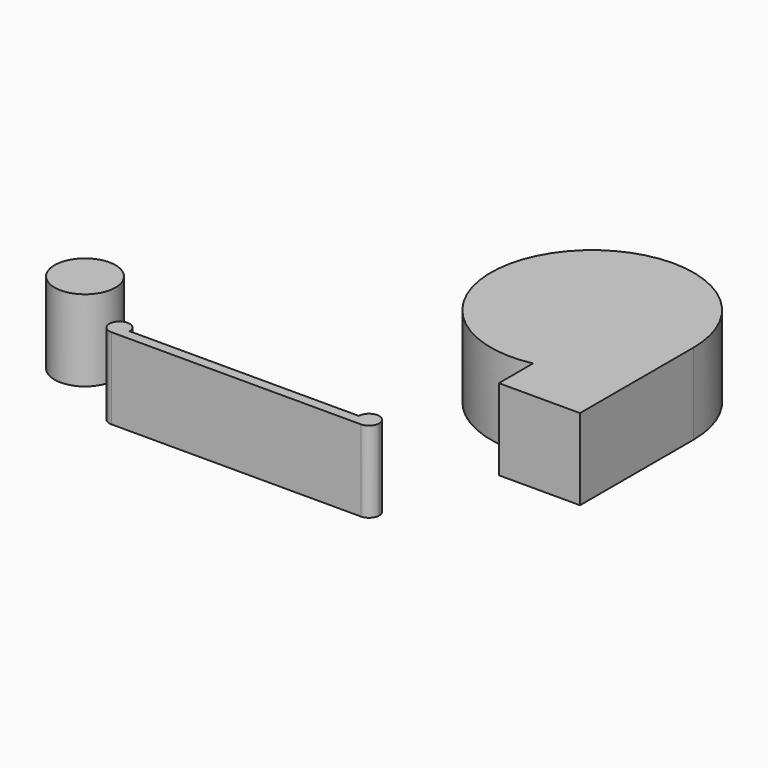
from build123d import *

# Parameters (mm, degrees)
F1_DEPTH = 25.4


with BuildPart() as f1:
    # F0 (on Top) → F1 (new body)
    with BuildSketch(Plane.XY):
        with BuildLine():
            ThreePointArc((9.525, 25.4), (-6.7351920908, 32.1351920908), (0, 15.875))
            ThreePointArc((0, 15.875), (6.7351920908, 18.6648079092), (9.525, 25.4))
        make_face()
    extrude(amount=F1_DEPTH)


with BuildPart() as f1b:
    # F0 (on Top) → F1, piece 2 (new body)
    with BuildSketch(Plane.XY):
        with BuildLine():
            Line((23.4790491443, 6.35), (101.6, 6.35))
            ThreePointArc((101.6, 6.35), (99.3549359697, 7.2799359697), (98.425, 9.525))
            Line((98.425, 9.525), (26.6540491479, 9.525))
            ThreePointArc((26.6540491479, 9.525), (25.7241131769, 7.2799359685), (23.4790491443, 6.35))
        make_face()
        with BuildLine():
            ThreePointArc((98.425, 9.525), (99.3549359697, 7.2799359697), (101.6, 6.35))
            Line((101.6, 6.35), (101.6, 9.525))
            Line((101.6, 9.525), (98.425, 9.525))
        make_face()
        with BuildLine():
            Line((101.6, 9.525), (101.6, 6.35))
            ThreePointArc((101.6, 6.35), (103.8450640303, 7.2799359697), (104.775, 9.525))
            ThreePointArc((104.775, 9.525), (101.6, 12.7), (98.425, 9.525))
            Line((98.425, 9.525), (101.6, 9.525))
        make_face()
        with BuildLine():
            ThreePointArc((20.3040491479, 9.525), (21.2339851164, 7.279935971), (23.4790491443, 6.35))
            ThreePointArc((23.4790491443, 6.35), (25.7241131769, 7.2799359685), (26.6540491479, 9.525))
            Line((26.6540491479, 9.525), (21.6534588964, 9.525))
            Line((21.6534588964, 9.525), (20.3040491479, 9.525))
        make_face()
        with BuildLine():
            ThreePointArc((20.3882761834, 10.2514623059), (20.3251761985, 9.8906643527), (20.3040491479, 9.525))
            Line((20.3040491479, 9.525), (21.6534588964, 9.525))
            Line((21.6534588964, 9.525), (21.6534588964, 12.1226614933))
            Line((21.6534588964, 12.1226614933), (21.0208675399, 11.1870618996))
            Line((21.0208675399, 11.1870618996), (20.3882761834, 10.2514623059))
        make_face()
        with BuildLine():
            Line((21.6534588964, 9.525), (26.6540491479, 9.525))
            ThreePointArc((26.6540491479, 9.525), (26.2965723553, 10.9886215275), (25.3046393994, 12.1226614933))
            Line((25.3046393994, 12.1226614933), (21.6534588964, 12.1226614933))
            Line((21.6534588964, 12.1226614933), (21.6534588964, 9.525))
        make_face()
        with BuildLine():
            ThreePointArc((20.848839381, 11.3033761082), (20.5706060051, 10.7984141058), (20.3882761834, 10.2514623059))
            Line((20.3882761834, 10.2514623059), (21.0208675399, 11.1870618996))
            Line((21.0208675399, 11.1870618996), (20.848839381, 11.3033761082))
        make_face()
        with BuildLine():
            Line((21.6534588964, 12.1226614933), (25.3046393994, 12.1226614933))
            ThreePointArc((25.3046393994, 12.1226614933), (23.4790491479, 12.7), (21.6534588964, 12.1226614933))
        make_face()
        with BuildLine():
            Line((21.0208675399, 11.1870618996), (21.6534588964, 12.1226614933))
            ThreePointArc((21.6534588964, 12.1226614933), (21.2138017913, 11.7496976005), (20.848839381, 11.3033761082))
            Line((20.848839381, 11.3033761082), (21.0208675399, 11.1870618996))
        make_face()
    extrude(amount=F1_DEPTH)


with BuildPart() as f1c:
    # F0 (on Top) → F1, piece 3 (new body)
    with BuildSketch(Plane.XY):
        with BuildLine():
            Line((114.3, 44.45), (139.7, 44.45))
            Line((139.7, 44.45), (139.7, 76.2))
            Line((139.7, 76.2), (139.7, 82.55))
            Line((139.7, 82.55), (139.0585197333, 82.55))
            ThreePointArc((139.0585197333, 82.55), (130.4006403027, 66.4493596973), (114.3, 57.7914802667))
            Line((114.3, 57.7914802667), (114.3, 44.45))
        make_face()
        with BuildLine():
            Line((139.0585197333, 82.55), (139.7, 82.55))
            Line((139.7, 82.55), (139.7, 88.9))
            ThreePointArc((139.7, 88.9), (139.5392228579, 85.7088404563), (139.0585197333, 82.55))
        make_face()
        with BuildLine():
            Line((114.3, 82.55), (114.3, 57.7914802667))
            ThreePointArc((114.3, 57.7914802667), (130.4006403027, 66.4493596973), (139.0585197333, 82.55))
            Line((139.0585197333, 82.55), (114.3, 82.55))
        make_face()
        with BuildLine():
            ThreePointArc((107.95, 120.65), (76.3607771421, 85.7088404563), (114.3, 57.7914802667))
            Line((114.3, 57.7914802667), (114.3, 82.55))
            Line((114.3, 82.55), (139.0585197333, 82.55))
            ThreePointArc((139.0585197333, 82.55), (139.5392228579, 85.7088404563), (139.7, 88.9))
            Line((139.7, 88.9), (107.95, 88.9))
            Line((107.95, 88.9), (107.95, 120.65))
        make_face()
        with BuildLine():
            Line((107.95, 88.9), (139.7, 88.9))
            ThreePointArc((139.7, 88.9), (130.4006403027, 111.3506403027), (107.95, 120.65))
            Line((107.95, 120.65), (107.95, 88.9))
        make_face()
    extrude(amount=F1_DEPTH)


solid = Compound([f1.part, f1b.part, f1c.part])
